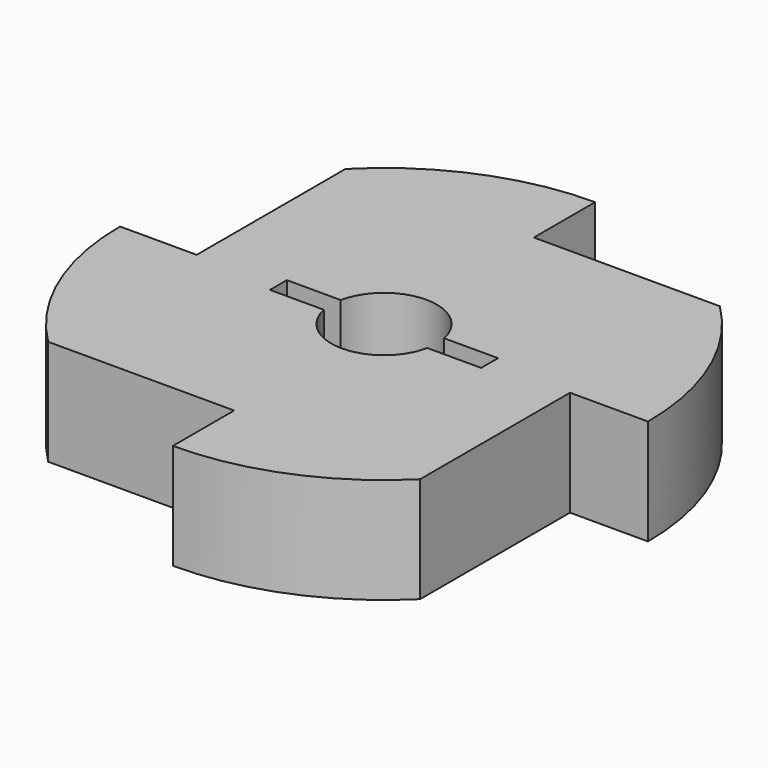
from build123d import *

# Parameters (mm, degrees)
F1_DEPTH = 5


with BuildPart() as f1:
    # F0 (on Top) → F1 (new body, symmetric)
    with BuildSketch(Plane.XY):
        with BuildLine():
            Line((0, 17.740628), (0, 25))
            ThreePointArc((0, 25), (-9.608274, 23.079885), (-17.740628, 17.614486))
            Line((-17.740628, 17.614486), (-17.740628, 0))
            Line((-17.740628, 0), (-25, 0))
            ThreePointArc((-25, 0), (-23.079885, -9.608274), (-17.614486, -17.740628))
            Line((-17.614486, -17.740628), (0, -17.740628))
            Line((0, -17.740628), (0, -25))
            ThreePointArc((0, -25), (9.525868, -23.114018), (17.614486, -17.740628))
            Line((17.614486, -17.740628), (17.614486, 0))
            Line((17.614486, 0), (25, 0))
            ThreePointArc((25, 0), (23.079885, 9.608274), (17.614486, 17.740628))
            Line((17.614486, 17.740628), (0, 17.740628))
        make_face()
        with BuildLine():
            ThreePointArc((4.898979, -1), (0, -5), (-4.898979, -1))
            Line((-4.898979, -1), (-10, -1))
            Line((-10, -1), (-10, 1))
            Line((-10, 1), (-4.898979, 1))
            ThreePointArc((-4.898979, 1), (0, 5), (4.898979, 1))
            Line((4.898979, 1), (10, 1))
            Line((10, 1), (10, -1))
            Line((10, -1), (4.898979, -1))
        make_face(mode=Mode.SUBTRACT)
    extrude(amount=F1_DEPTH, both=True)


solid = f1.part
